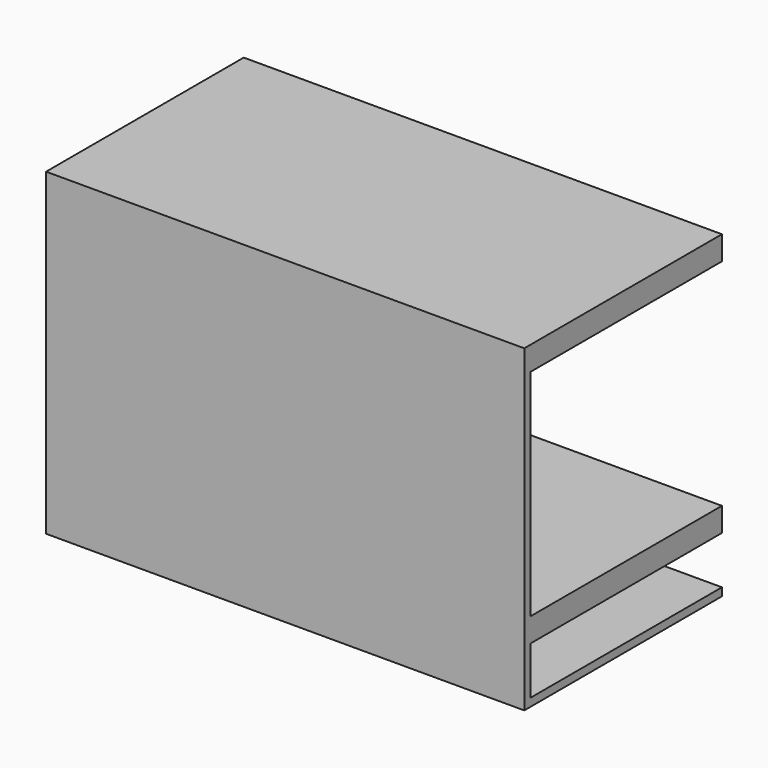
from build123d import *

# Parameters (mm, degrees)
F0_W     = 300
F0_H     = 200
F1_DEPTH = 5
F2_W     = 300
F2_H     = 15
F2_H_2   = 5
F3_DEPTH = 150


with BuildPart() as f1:
    # F0 (on Front) → F1 (new body)
    with BuildSketch(Plane.XZ):
        Rectangle(F0_W, F0_H)
    extrude(amount=F1_DEPTH)

    # F2 (on face) → F3 (join)
    with BuildSketch(Plane(origin=(0, 0, 0), x_dir=(-1, 0, 0), z_dir=(0, 1, 0))):
        with Locations((0, 92.5)):
            Rectangle(F2_W, F2_H)
        with Locations((0, -57.5)):
            Rectangle(F2_W, F2_H)
        with Locations((0, -97.5)):
            Rectangle(F2_W, F2_H_2)
    extrude(amount=F3_DEPTH)


solid = f1.part
